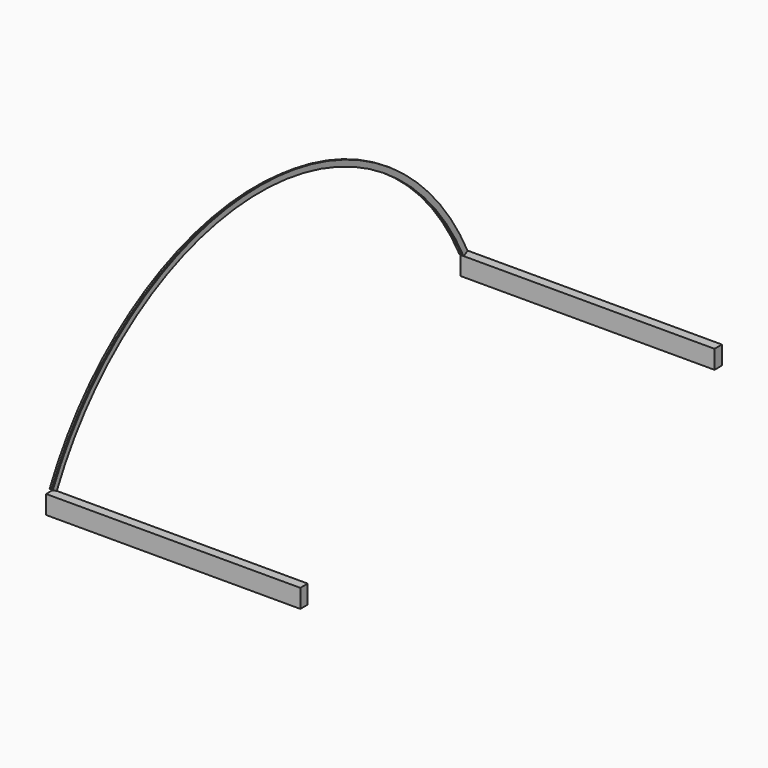
from build123d import *

# Parameters (mm, degrees)
F0_W     = 1219.2
F0_H     = 44.45
F1_DEPTH = 88.9


with BuildPart() as f1:
    # F0 (on Top) → F1 (new body)
    with BuildSketch(Plane.XY):
        with Locations((-2861.098913, 1241.425)):
            Rectangle(F0_W, F0_H)
        with Locations((-2861.098913, -1241.425)):
            Rectangle(F0_W, F0_H)
    extrude(amount=F1_DEPTH)


with BuildPart() as f5:
    # F5: sweep along a path in F2
    with BuildLine(Plane(origin=(-3470.698913, 0, 0), x_dir=(0, -1, 0), z_dir=(-1, 0, 0))) as f5_path:
        ThreePointArc((1236.364763, 97.162772), (0, 874.15854), (-1236.364763, 97.162772))
    # F4 (on face) → F5 (sweep)
    with BuildSketch(Plane(origin=(0, 194.62632, -404.309187), x_dir=(1, 0, 0), z_dir=(0, 0.433741, -0.901037))):
        with BuildLine():
            ThreePointArc((-3470.698913, -1137.104449), (-3480.223913, -1146.629449), (-3470.698913, -1156.154449))
            Line((-3470.698913, -1156.154449), (-3470.698913, -1137.104449))
        make_face()
        with BuildLine():
            Line((-3470.698913, -1137.104449), (-3470.698913, -1156.154449))
            ThreePointArc((-3470.698913, -1156.154449), (-3463.963721, -1153.364641), (-3461.173913, -1146.629449))
            ThreePointArc((-3461.173913, -1146.629449), (-3463.963721, -1139.894257), (-3470.698913, -1137.104449))
        make_face()
    sweep(path=f5_path.line)


with BuildPart() as f8:
    # F8: sweep along a path in F2
    with BuildLine(Plane(origin=(-3470.698913, 0, 0), x_dir=(0, -1, 0), z_dir=(-1, 0, 0))) as f8_path:
        ThreePointArc((1236.364763, 97.162772), (0, 874.15854), (-1236.364763, 97.162772))
    # F7 (on face) → F8 (sweep)
    with BuildSketch(Plane(origin=(0, 194.62632, -404.309187), x_dir=(1, 0, 0), z_dir=(0, 0.433741, -0.901037))):
        Polygon((-3454.823913, -1137.104449), (-3461.173913, -1137.104449), (-3461.173913, -1146.629449), (-3461.173913, -1164.409449), (-3454.823913, -1164.409449), align=None)
    sweep(path=f8_path.line)


solid = Compound([f1.part, f5.part, f8.part])
